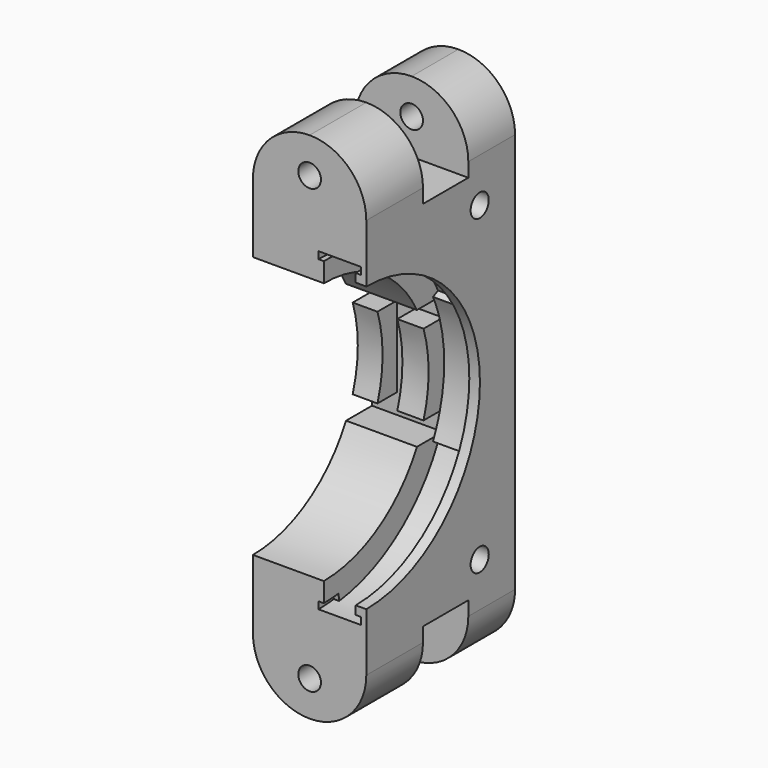
from build123d import *

# Parameters (mm, degrees)
SKETCH001_W     = 23.25
SKETCH001_H     = 46.5
POCKET_DEPTH    = 16.001
POCKET001_DEPTH = 21
SKETCH003_W     = 4.5
SKETCH003_H     = 1
GROOVE_ANGLE    = 65
SKETCH004_W     = 6
SKETCH004_H     = 1
GROOVE001_ANGLE = 7
PAD_DEPTH       = 16
SKETCH006_W     = 8
SKETCH006_H     = 10
POCKET002_DEPTH = 16.001
SKETCH007_R     = 1.6
POCKET003_DEPTH = 26.251
POCKET004_DEPTH = 2.7
FILLET_R        = 7.999
SKETCH009_R     = 1.6
POCKET005_DEPTH = 16.001


with BuildPart() as part:
    # Sketch → Revolution (revolve)
    with BuildSketch(Plane.XY):
        Polygon((0, -18.5), (10, -18.5), (10, -21.25), (14.5, -21.25), (14.5, -20.05), (16, -20.05), (16, -23.25), (14.5, -23.25), (10, -23.25), (0, -23.25), align=None)
    revolve(axis=Axis((0, 0, 0), (1, 0, 0)))

    # Sketch001 (on Face9 of Revolution) → Pocket (cut, through all)
    with BuildSketch(Plane.YZ.offset(16)):
        with Locations((-11.625, 0)):
            Rectangle(SKETCH001_W, SKETCH001_H)
    extrude(amount=-POCKET_DEPTH, mode=Mode.SUBTRACT)

    # Sketch002 (on Face2 of Pocket) → Pocket001 (cut)
    with BuildSketch(Plane.XZ):
        Polygon((0, 8.5), (10, 8.5), (10, 5.7), (6.3, 5.7), (6.3, -5.7), (10, -5.7), (10, -8.5), (0, -8.5), (0, -5.7), (3.5, -5.7), (3.5, 5.7), (0, 5.7), align=None)
    extrude(amount=-POCKET001_DEPTH, mode=Mode.SUBTRACT)

    # Sketch003 (on Face4 of Pocket001) → Groove (revolve, cut)
    with BuildSketch(Plane.XZ):
        with Locations((12.25, -21.75)):
            Rectangle(SKETCH003_W, SKETCH003_H)
    groove = revolve(axis=Axis((0, 0, 0), (1, 0, 0)), revolution_arc=GROOVE_ANGLE, mode=Mode.SUBTRACT)

    # Sketch004 (on Face4 of Groove) → Groove001 (revolve, cut)
    with BuildSketch(Plane.XZ):
        with Locations((12.25, -21.75)):
            Rectangle(SKETCH004_W, SKETCH004_H)
    groove001 = revolve(axis=Axis((0, 0, 0), (1, 0, 0)), revolution_arc=GROOVE001_ANGLE, mode=Mode.SUBTRACT)

    # Sketch005 (on Face12 of Groove001) → Pad (join)
    with BuildSketch(Plane(origin=(0, 0, 0), x_dir=(0, -1, 0), z_dir=(-1, 0, 0))):
        with BuildLine():
            ThreePointArc((0, 23.25), (-23.25, 0), (0, -23.25))
            Line((0, -36.25), (0, -23.25))
            Line((-26.25, -36.25), (0, -36.25))
            Line((-26.25, -36.25), (-26.25, 36.25))
            Line((-26.25, 36.25), (0, 36.25))
            Line((0, 36.25), (0, 23.25))
        make_face()
    extrude(amount=-PAD_DEPTH)

    # Sketch006 (on Face11 of Pad) → Pocket002 (cut, through all)
    with BuildSketch(Plane.YZ.offset(16)):
        with Locations((14, 31.25)):
            Rectangle(SKETCH006_W, SKETCH006_H)
        with Locations((14, -31.25)):
            Rectangle(SKETCH006_W, SKETCH006_H)
    extrude(amount=-POCKET002_DEPTH, mode=Mode.SUBTRACT)

    # Sketch007 (on Face40 of Pocket002) → Pocket003 (cut, through all)
    with BuildSketch(Plane(origin=(0, 26.25, 0), x_dir=(-1, 0, 0), z_dir=(0, 1, 0))):
        with Locations((-8, 31.25)):
            Circle(SKETCH007_R)
        with Locations((-8, -31.25)):
            Circle(SKETCH007_R)
    extrude(amount=-POCKET003_DEPTH, mode=Mode.SUBTRACT)

    # Sketch008 (on Face41 of Pocket003) → Pocket004 (cut)
    with BuildSketch(Plane(origin=(0, 26.25, 0), x_dir=(-1, 0, 0), z_dir=(0, 1, 0))):
        Polygon((-9.818653, 34.4), (-11.637307, 31.25), (-9.818653, 28.1), (-6.181347, 28.1), (-4.362693, 31.25), (-6.181347, 34.4), align=None)
        Polygon((-9.818653, -28.1), (-11.637307, -31.25), (-9.818653, -34.4), (-6.181347, -34.4), (-4.362693, -31.25), (-6.181347, -28.1), align=None)
    extrude(amount=-POCKET004_DEPTH, mode=Mode.SUBTRACT)

    # Mirrored: Groove001, Groove across XY
    add(groove001.mirror(Plane.XY), mode=Mode.SUBTRACT)
    add(groove.mirror(Plane.XY), mode=Mode.SUBTRACT)

    # Fillet
    fillet_edges = [part.edges().sort_by_distance(p)[0] for p in [
        (0, 22.125, 36.25),
        (0, 5, 36.25),
        (16, 5, 36.25),
        (16, 22.125, 36.25),
        (0, 22.125, -36.25),
        (0, 5, -36.25),
        (16, 22.125, -36.25),
        (16, 5, -36.25),
    ]]
    fillet(fillet_edges, radius=FILLET_R)

    # Sketch009 (on Face7 of Fillet) → Pocket005 (cut, through all)
    with BuildSketch(Plane.YZ.offset(16)):
        with Locations((20.007097, 22.008097)):
            Circle(SKETCH009_R)
        with Locations((20.007097, -22.008097)):
            Circle(SKETCH009_R)
    extrude(amount=-POCKET005_DEPTH, mode=Mode.SUBTRACT)


solid = part.part
